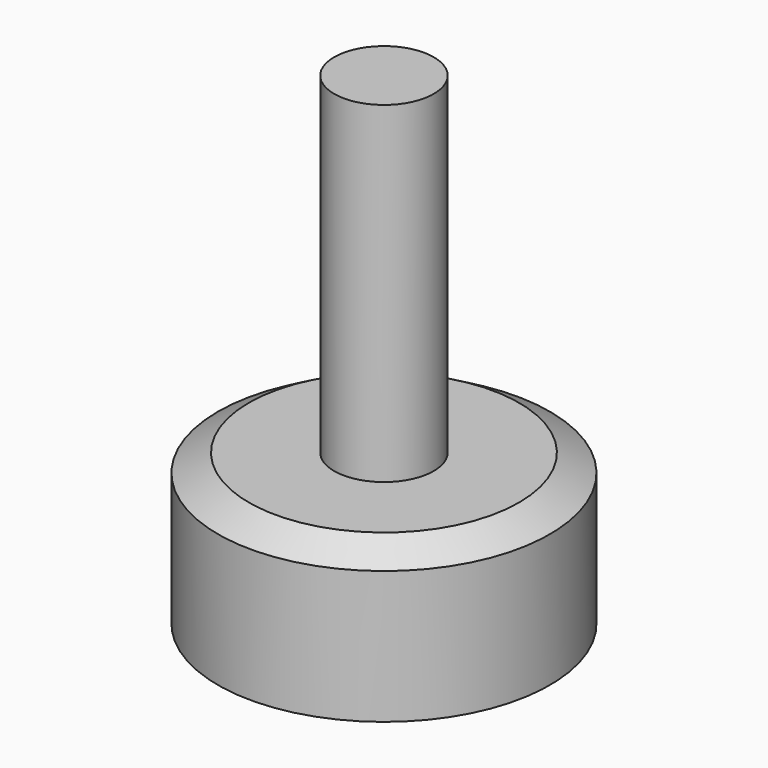
from build123d import *

# Parameters (mm, degrees)
F0_W   = 3
F0_H   = 20
F0_H_2 = 3
F0_H_3 = 1.0746234533


with BuildPart() as f1:
    # F0 (on Front) → F1 (revolve)
    with BuildSketch(Plane.XZ):
        with Locations((-22.0513077103, 19.0746234533)):
            Rectangle(F0_W, F0_H)
        Polygon((-23.5513077103, 8), (-30.5513077103, 8), (-30.5513077103, 0), (-23.5513077103, 0), (-23.5513077103, 5), align=None)
        Polygon((-28.6900052902, 9.0746234533), (-30.5513077103, 8), (-23.5513077103, 8), (-23.5513077103, 9.0746234533), align=None)
        with Locations((-22.0513077103, 6.5)):
            Rectangle(F0_W, F0_H_2)
        with Locations((-22.0513077103, 8.5373117267)):
            Rectangle(F0_W, F0_H_3)
    revolve(axis=Axis((-20.5513077103, 0, 19.0746234533), (0, 0, 1)))


solid = f1.part
